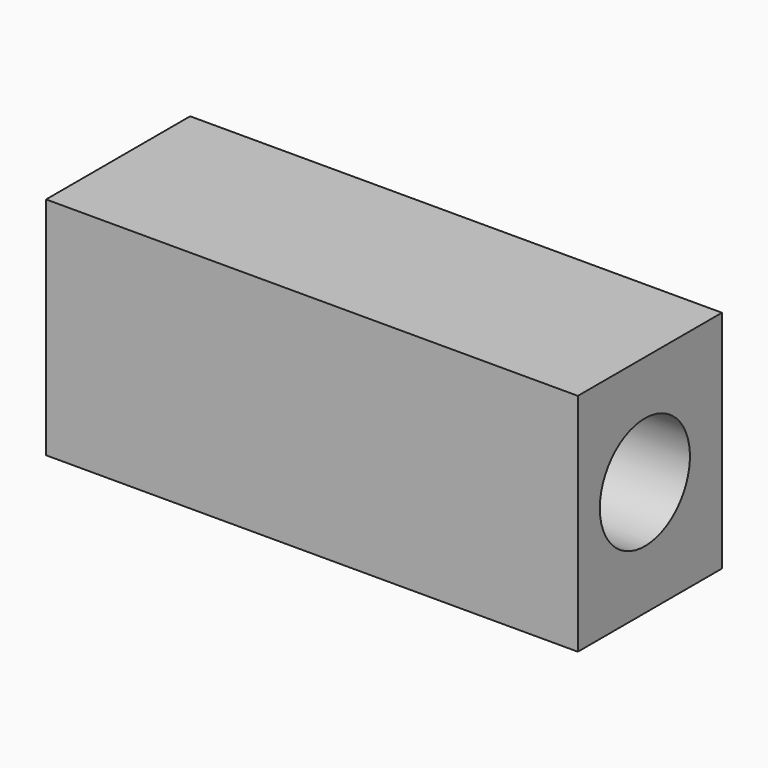
from build123d import *

# Parameters (mm, degrees)
F0_W     = 59.962645
F0_H     = 20.302313
F1_DEPTH = 25.4
F3_D     = 12.7


with BuildPart() as f1:
    # F0 (on Top) → F1 (new body)
    with BuildSketch(Plane.XY):
        with Locations((29.981322, 10.151156)):
            Rectangle(F0_W, F0_H)
    extrude(amount=F1_DEPTH)

    # F3 (through all)
    with Locations(Plane.YZ.offset(59.962645)):
        with Locations((9.442938, 12.98404)):
            Hole(F3_D / 2)


solid = f1.part
